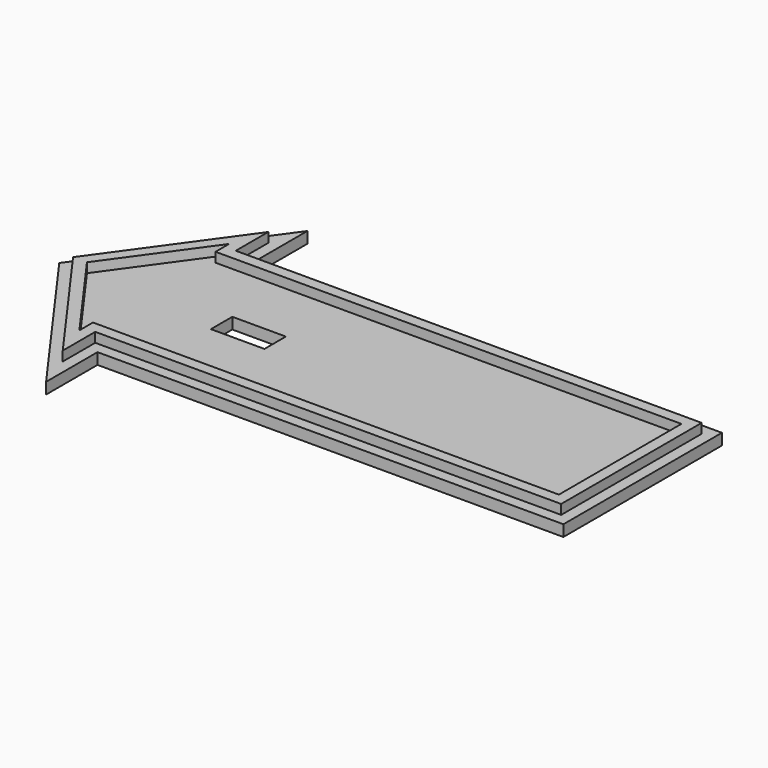
from build123d import *

# Parameters (mm, degrees)
F1_DEPTH = 2.1
F3_DEPTH = 1.8
F5_DEPTH = 8


with BuildPart() as f1:
    # F0 (on Top) → F1 (new body)
    with BuildSketch(Plane.XY):
        Polygon((61.593626, -18.5), (61.593626, 18.5), (-25.406374, 18.5), (-25.406374, 30.5), (-47.352125, 0), (-25.406374, -30.5), (-25.406374, -18.5), align=None)
    extrude(amount=F1_DEPTH)

    # F2 (on face) → F3 (join)
    with BuildSketch(Plane.XY.offset(2.1)):
        Polygon((59.493628, 16.400002), (-27.506373, 16.400002), (-27.506373, 23.985889), (-44.765007, 0), (-27.506373, -23.985889), (-27.506373, -16.400002), (59.493628, -16.400002), align=None)
        Polygon((-29.606375, 17.471772), (-29.606375, 14.3), (57.393626, 14.3), (57.393626, -14.3), (-29.606375, -14.3), (-29.606375, -17.471772), (-42.177888, 0), align=None, mode=Mode.SUBTRACT)
    extrude(amount=F3_DEPTH)

    # F4 (on face) → F5 (cut)
    with BuildSketch(Plane.XY.offset(2.1)):
        Polygon((-7.031372, -2.5), (-7.031372, 0), (-7.031372, 2.5), (-17.031372, 2.5), (-17.031372, -2.5), align=None)
    extrude(amount=-F5_DEPTH, mode=Mode.SUBTRACT)


solid = f1.part
